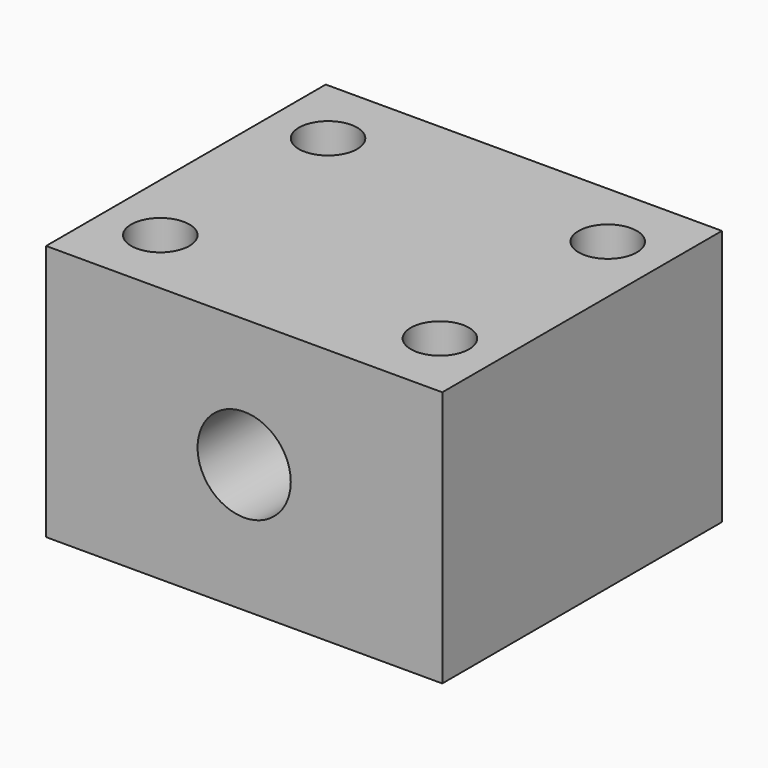
from build123d import *

# Parameters (mm, degrees)
F2_DEPTH = 30
F3_D     = 5
F3_DEPTH = 22
F3_TIP   = 1.5021515476


with BuildPart() as f2:
    # F0 (on Front) → F2 (new body)
    with BuildSketch(Plane.XZ):
        with BuildLine():
            Line((-17, 22), (-17, 11))
            Line((-17, 11), (-4, 11))
            ThreePointArc((-4, 11), (0, 15), (4, 11))
            Line((4, 11), (17, 11))
            Line((17, 11), (17, 22))
            Line((17, 22), (7.3435500053, 22))
            Line((7.3435500053, 22), (0, 22))
            Line((0, 22), (-17, 22))
        make_face()
        with BuildLine():
            Line((-17, 11), (-17, 0))
            Line((-17, 0), (0, 0))
            Line((0, 0), (17, 0))
            Line((17, 0), (17, 11))
            Line((17, 11), (4, 11))
            ThreePointArc((4, 11), (0, 7), (-4, 11))
            Line((-4, 11), (-17, 11))
        make_face()
    extrude(amount=F2_DEPTH)

    # F3
    with Locations(Plane(origin=(0, 0, 0), x_dir=(1, 0, 0), z_dir=(0, 0, -1))):
        with Locations((-12, 24), (-12, 6), (12, 24), (12, 6)):
            Hole(F3_D / 2, depth=F3_DEPTH)
            with Locations((0, 0, -(F3_DEPTH + F3_TIP / 2))):  # 118° drill point
                Cone(0, F3_D / 2, F3_TIP, mode=Mode.SUBTRACT)


solid = f2.part
